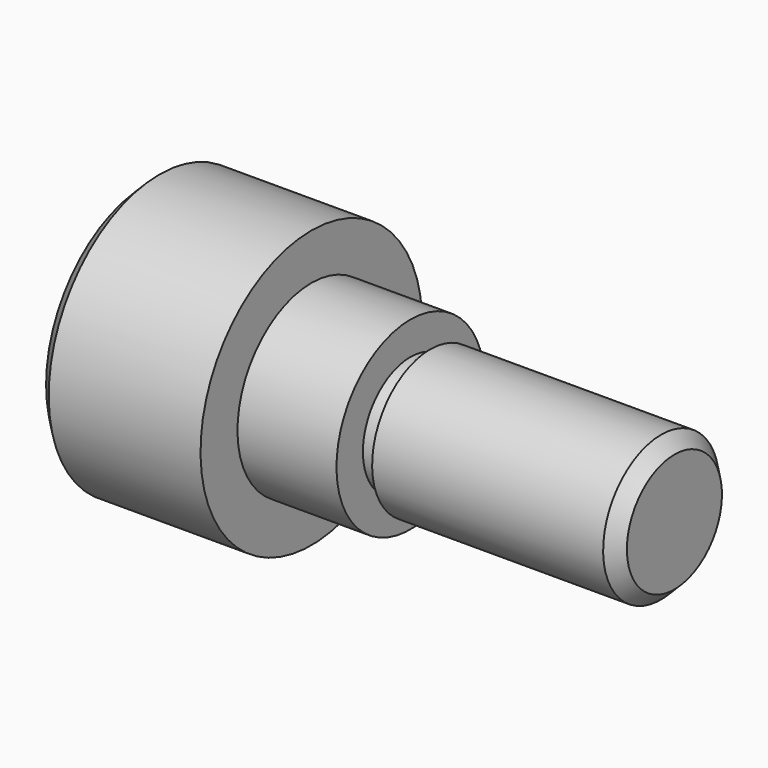
from build123d import *

# Parameters (mm, degrees)
F0_W = 3
F0_H = 9


with BuildPart() as f1:
    # F0 (on Front) → F1 (revolve)
    with BuildSketch(Plane.XZ):
        Polygon((-35.692309, 0), (-35.692309, 21), (-37.692309, 19), (-37.692309, 0), align=None)
        Polygon((-12.692309, 21), (-35.692309, 21), (-35.692309, 0), (-12.692309, 0), (-12.692309, 14), align=None)
        Polygon((-12.692309, 14), (-12.692309, 0), (2.307691, 0), (2.307691, 9), (2.307691, 14), align=None)
        with Locations((3.807691, 4.5)):
            Rectangle(F0_W, F0_H)
        Polygon((5.307691, 9), (5.307691, 0), (40.307692, 0), (40.307692, 11), (5.307691, 11), align=None)
        Polygon((40.307692, 11), (40.307692, 0), (42.307691, 0), (42.307691, 9), align=None)
    revolve(axis=Axis((29.279877, 0, 0), (1, 0, 0)))


solid = f1.part
